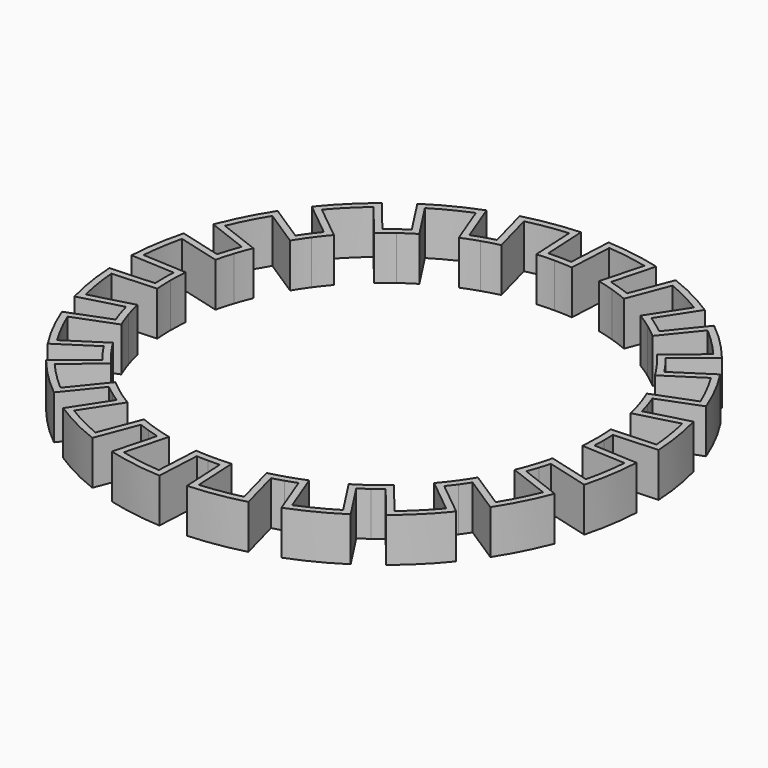
from build123d import *

# Parameters (mm, degrees)
F1_DEPTH = 8
F2_COUNT = 20
F2_ANGLE = 342
F4_T     = -1.2


with BuildPart() as f1:
    # F0 (on Top) → F1 (new body)
    with BuildSketch(Plane.XY):
        with BuildLine():
            ThreePointArc((2.0934382497, 39.9451813902), (1.0470779323, 39.986292999), (0, 40))
            Line((0, 40), (0, 0))
            Line((0, 0), (12.360679775, 38.0422606518))
            ThreePointArc((12.360679775, 38.0422606518), (11.3606137882, 38.3527893947), (10.3527618041, 38.6370330516))
            Line((10.3527618041, 38.6370330516), (12.4233141649, 46.3644396619))
            ThreePointArc((12.4233141649, 46.3644396619), (7.5088543219, 47.4090403486), (2.5121258997, 47.9342176682))
            Line((2.5121258997, 47.9342176682), (2.0934382497, 39.9451813902))
        make_face()
    extrude(amount=F1_DEPTH)


with BuildPart() as f2_1:
    # F2: instance of F1
    add(f1.part.rotate(Axis((0, 0, 4), (0, 0, -1)), 1 * F2_ANGLE / (F2_COUNT - 1)))


with BuildPart() as f2_2:
    # F2: instance of F1
    add(f1.part.rotate(Axis((0, 0, 4), (0, 0, -1)), 2 * F2_ANGLE / (F2_COUNT - 1)))


with BuildPart() as f2_3:
    # F2: instance of F1
    add(f1.part.rotate(Axis((0, 0, 4), (0, 0, -1)), 3 * F2_ANGLE / (F2_COUNT - 1)))


with BuildPart() as f2_4:
    # F2: instance of F1
    add(f1.part.rotate(Axis((0, 0, 4), (0, 0, -1)), 4 * F2_ANGLE / (F2_COUNT - 1)))


with BuildPart() as f2_5:
    # F2: instance of F1
    add(f1.part.rotate(Axis((0, 0, 4), (0, 0, -1)), 5 * F2_ANGLE / (F2_COUNT - 1)))


with BuildPart() as f2_6:
    # F2: instance of F1
    add(f1.part.rotate(Axis((0, 0, 4), (0, 0, -1)), 6 * F2_ANGLE / (F2_COUNT - 1)))


with BuildPart() as f2_7:
    # F2: instance of F1
    add(f1.part.rotate(Axis((0, 0, 4), (0, 0, -1)), 7 * F2_ANGLE / (F2_COUNT - 1)))


with BuildPart() as f2_8:
    # F2: instance of F1
    add(f1.part.rotate(Axis((0, 0, 4), (0, 0, -1)), 8 * F2_ANGLE / (F2_COUNT - 1)))


with BuildPart() as f2_9:
    # F2: instance of F1
    add(f1.part.rotate(Axis((0, 0, 4), (0, 0, -1)), 9 * F2_ANGLE / (F2_COUNT - 1)))


with BuildPart() as f2_10:
    # F2: instance of F1
    add(f1.part.rotate(Axis((0, 0, 4), (0, 0, -1)), 10 * F2_ANGLE / (F2_COUNT - 1)))


with BuildPart() as f2_11:
    # F2: instance of F1
    add(f1.part.rotate(Axis((0, 0, 4), (0, 0, -1)), 11 * F2_ANGLE / (F2_COUNT - 1)))


with BuildPart() as f2_12:
    # F2: instance of F1
    add(f1.part.rotate(Axis((0, 0, 4), (0, 0, -1)), 12 * F2_ANGLE / (F2_COUNT - 1)))


with BuildPart() as f2_13:
    # F2: instance of F1
    add(f1.part.rotate(Axis((0, 0, 4), (0, 0, -1)), 13 * F2_ANGLE / (F2_COUNT - 1)))


with BuildPart() as f2_14:
    # F2: instance of F1
    add(f1.part.rotate(Axis((0, 0, 4), (0, 0, -1)), 14 * F2_ANGLE / (F2_COUNT - 1)))


with BuildPart() as f2_15:
    # F2: instance of F1
    add(f1.part.rotate(Axis((0, 0, 4), (0, 0, -1)), 15 * F2_ANGLE / (F2_COUNT - 1)))


with BuildPart() as f2_16:
    # F2: instance of F1
    add(f1.part.rotate(Axis((0, 0, 4), (0, 0, -1)), 16 * F2_ANGLE / (F2_COUNT - 1)))


with BuildPart() as f2_17:
    # F2: instance of F1
    add(f1.part.rotate(Axis((0, 0, 4), (0, 0, -1)), 17 * F2_ANGLE / (F2_COUNT - 1)))


with BuildPart() as f2_18:
    # F2: instance of F1
    add(f1.part.rotate(Axis((0, 0, 4), (0, 0, -1)), 18 * F2_ANGLE / (F2_COUNT - 1)))


with BuildPart() as f2_19:
    # F2: instance of F1
    add(f1.part.rotate(Axis((0, 0, 4), (0, 0, -1)), 19 * F2_ANGLE / (F2_COUNT - 1)))


with BuildPart() as f2_18_1:
    add(f2_18.part)

    # F3: union F2_19, F1, F2_1, F2_2, F2_3, F2_4, F2_5, F2_6, F2_7, F2_8, F2_9, F2_10, F2_11, F2_12, F2_13, F2_14, F2_15, F2_16, F2_17
    add(f2_19.part)
    add(f1.part)
    add(f2_1.part)
    add(f2_2.part)
    add(f2_3.part)
    add(f2_4.part)
    add(f2_5.part)
    add(f2_6.part)
    add(f2_7.part)
    add(f2_8.part)
    add(f2_9.part)
    add(f2_10.part)
    add(f2_11.part)
    add(f2_12.part)
    add(f2_13.part)
    add(f2_14.part)
    add(f2_15.part)
    add(f2_16.part)
    add(f2_17.part)

    # F4
    f4_openings = [f2_18_1.faces().sort_by_distance(p)[0] for p in [
        (0, 0, 8),
        (0, 0, 0),
    ]]
    offset(amount=F4_T, openings=f4_openings, kind=Kind.INTERSECTION)


solid = f2_18_1.part
